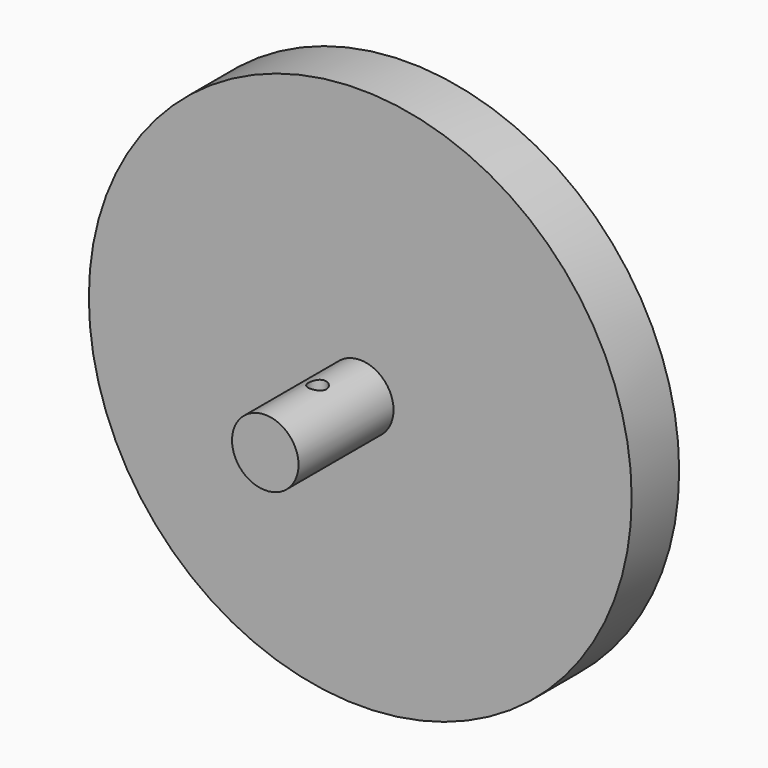
from build123d import *

# Parameters (mm, degrees)
F1_R          = 28.006963647
F2_DEPTH      = 100
F0_R          = 228.6
F3_DEPTH      = 50
F4_R          = 7.5
F5_DEPTH      = 28.006963647
F5_DEPTH_BACK = 28.006963647


with BuildPart() as f2:
    # F1 (on Front) → F2 (new body)
    with BuildSketch(Plane.XZ):
        Circle(F1_R)
    extrude(amount=F2_DEPTH)

    # F0 (on Front) → F3 (join)
    with BuildSketch(Plane.XZ):
        Circle(F0_R)
    extrude(amount=-F3_DEPTH)

    # F4 (on Top) → F5 (cut, two sides)
    with BuildSketch(Plane.XY) as f5_sk:
        with Locations((0, -45)):
            Circle(F4_R)
    extrude(amount=-F5_DEPTH, mode=Mode.SUBTRACT)
    extrude(f5_sk.sketch, amount=F5_DEPTH_BACK, mode=Mode.SUBTRACT)


solid = f2.part
